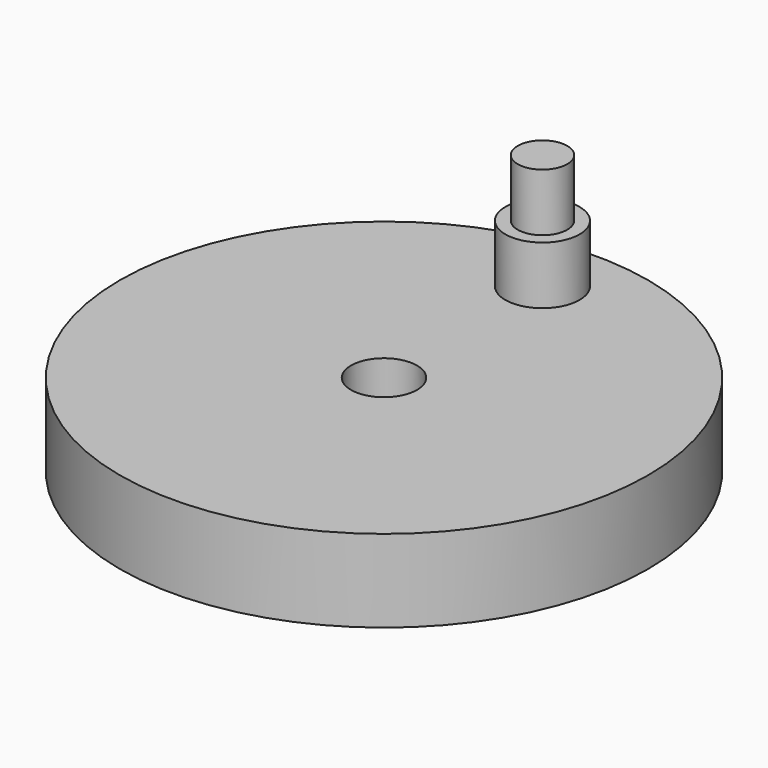
from build123d import *

# Parameters (mm, degrees)
F0_R     = 80
F0_R_2   = 10
F1_DEPTH = 25
F2_R     = 7.5
F3_DEPTH = 35
F4_R     = 7.5
F4_R_2   = 11.25
F5_DEPTH = 17.5


with BuildPart() as f1:
    # F0 (on Top) → F1 (new body)
    with BuildSketch(Plane.XY):
        Circle(F0_R)
        Circle(F0_R_2, mode=Mode.SUBTRACT)
    extrude(amount=F1_DEPTH)

    # F2 (on face) → F3 (join)
    with BuildSketch(Plane.XY.offset(25)):
        with Locations((0, 60)):
            Circle(F2_R)
    extrude(amount=F3_DEPTH)

    # F4 (on face) → F5 (join)
    with BuildSketch(Plane.XY.offset(25)):
        with Locations((0, 60)):
            Circle(F4_R)
        with Locations((0, 60)):
            Circle(F4_R_2)
        with Locations((0, 60)):
            Circle(F4_R, mode=Mode.SUBTRACT)
    extrude(amount=F5_DEPTH)


solid = f1.part
